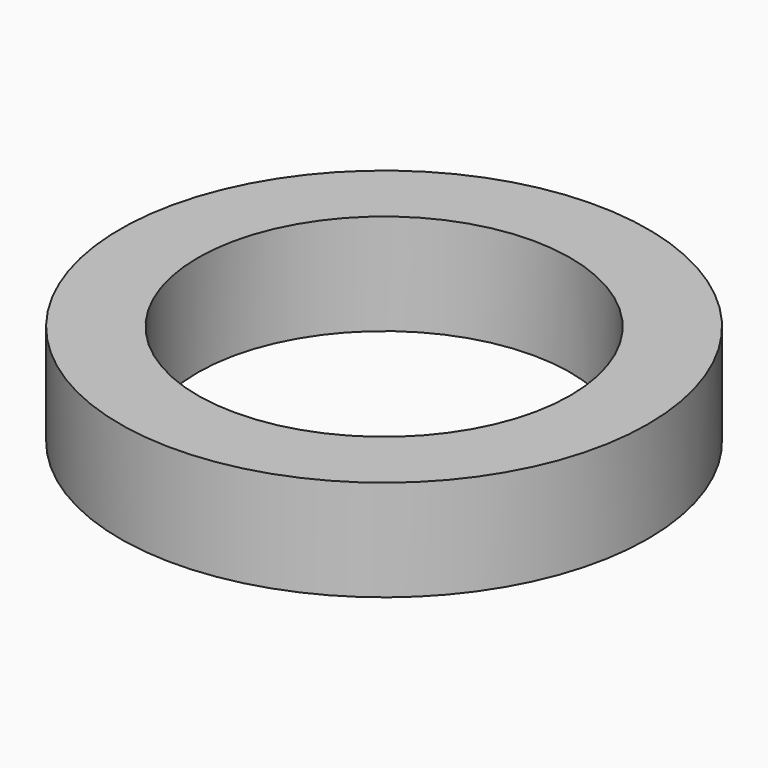
from build123d import *

# Parameters (mm, degrees)
SKETCH_R   = 6.8
SKETCH_R_2 = 4.8
PAD_DEPTH  = 2.6


with BuildPart() as part:
    # Sketch → Pad (new body)
    with BuildSketch(Plane.XY):
        Circle(SKETCH_R)
        Circle(SKETCH_R_2, mode=Mode.SUBTRACT)
    extrude(amount=PAD_DEPTH)


solid = part.part
